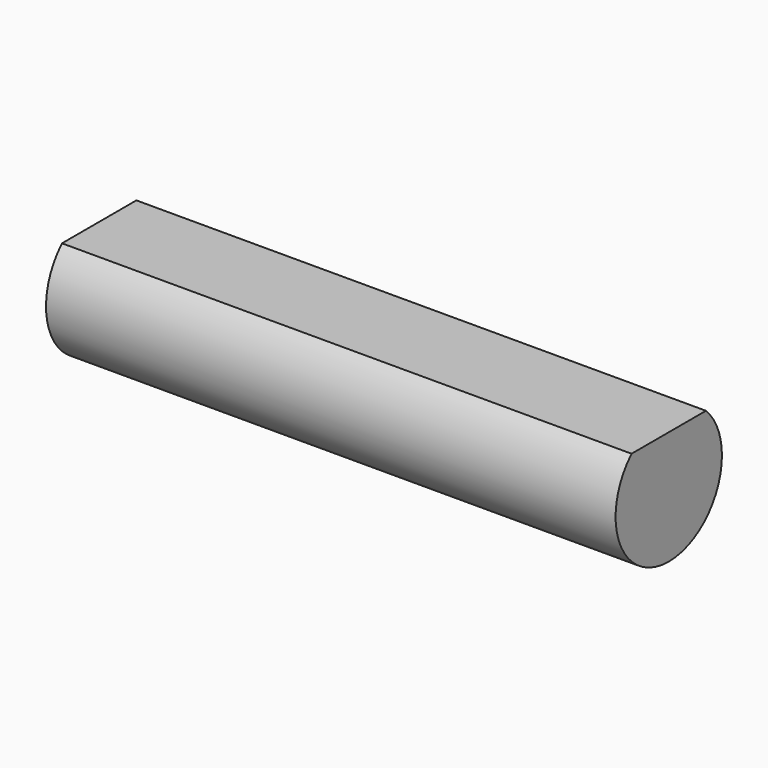
from build123d import *

# Parameters (mm, degrees)
F1_DEPTH = 15


with BuildPart() as f1:
    # F0 (on Right) → F1 (new body, symmetric)
    with BuildSketch(Plane.YZ):
        with BuildLine():
            ThreePointArc((-2.44949, 2.5), (-3.24037, -1.322876), (0, -3.5))
            Line((0, -3.5), (0, 0))
            Line((0, 0), (0, 2.5))
            Line((0, 2.5), (-2.44949, 2.5))
        make_face()
        with BuildLine():
            ThreePointArc((0, -3.5), (2.474874, -2.474874), (3.5, 0))
            ThreePointArc((3.5, 0), (3.226702, 1.355874), (2.44949, 2.5))
            Line((2.44949, 2.5), (0, 2.5))
            Line((0, 2.5), (0, 0))
            Line((0, 0), (0, -3.5))
        make_face()
    extrude(amount=F1_DEPTH, both=True)


solid = f1.part
